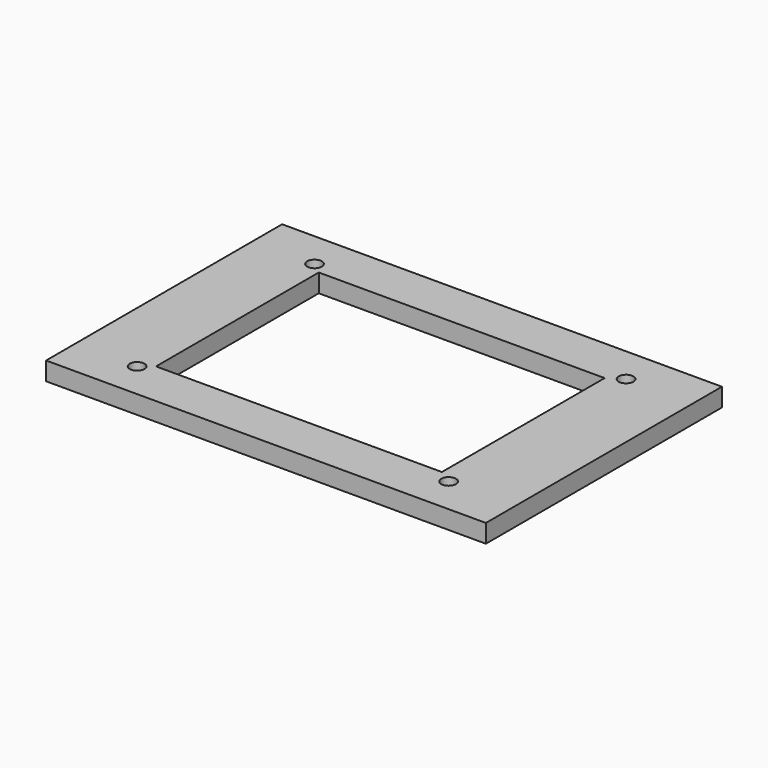
from build123d import *

# Parameters (mm, degrees)
F0_W     = 120
F0_H     = 80.5
F0_R     = 2
F0_W_2   = 78
F0_H_2   = 55.5
F1_DEPTH = 5


with BuildPart() as f1:
    # F0 (on Top) → F1 (new body)
    with BuildSketch(Plane.XY):
        with Locations((60, 40.25)):
            Rectangle(F0_W, F0_H)
        with Locations((16.837887, 10)):
            Circle(F0_R, mode=Mode.SUBTRACT)
        with Locations((59, 40.25)):
            Rectangle(F0_W_2, F0_H_2, mode=Mode.SUBTRACT)
        with Locations((101.837887, 10)):
            Circle(F0_R, mode=Mode.SUBTRACT)
        with Locations((16.837887, 70.5)):
            Circle(F0_R, mode=Mode.SUBTRACT)
        with Locations((101.837887, 70.5)):
            Circle(F0_R, mode=Mode.SUBTRACT)
    extrude(amount=F1_DEPTH)


solid = f1.part
